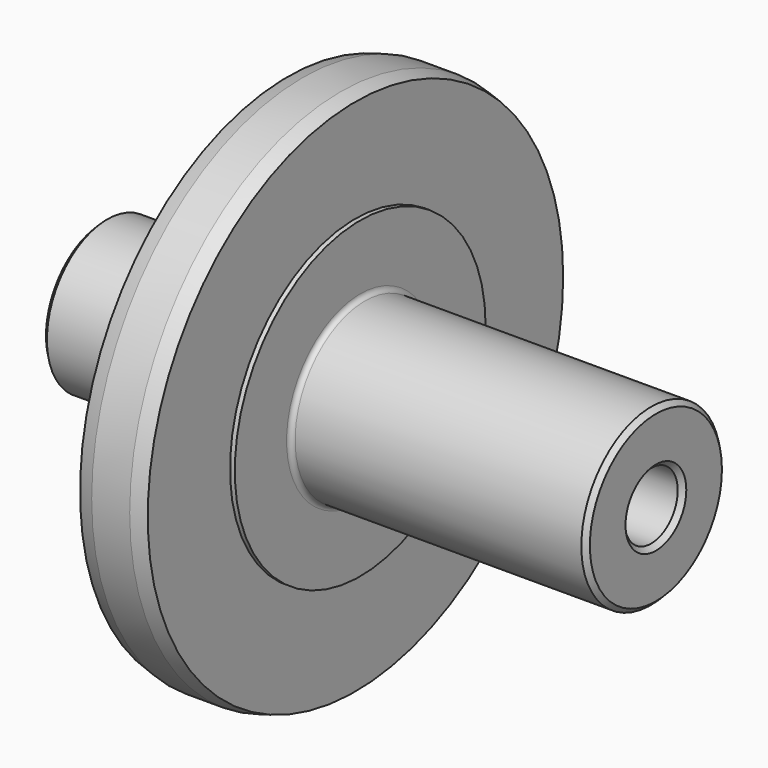
from build123d import *

# Parameters (mm, degrees)
F2_SIZE  = 0.4
F3_R     = 0.4
F4_SIZE2 = 0.3349364905
F4_SIZE  = 1.25


with BuildPart() as f1:
    # F0 (on Top) → F1 (revolve)
    with BuildSketch(Plane.XY):
        Polygon((-22.8699422013, 6.35), (-22.8699422013, 2.8), (23.7300577987, 2.8), (23.7300577987, 7.35), (-1.1699422013, 7.35), (-1.1699422013, 13.2), (-1.5699422013, 13.2), (-1.5699422013, 22.2), (-7.2699422013, 22.2), (-7.2699422013, 9.25), (-7.4699422013, 9.25), (-7.4699422013, 6.35), align=None)
    revolve(axis=Axis((0.339884735, 0, 0), (1, 0, 0)))

    # F2
    f2_edges = [f1.edges().sort_by_distance(p)[0] for p in [
        (23.730058, -7.35, 0),
        (-22.869942, -6.35, 0),
        (-22.869942, -2.8, 0),
        (23.730058, -2.8, 0),
    ]]
    chamfer(f2_edges, length=F2_SIZE)

    # F3
    f3_edges = [f1.edges().sort_by_distance(p)[0] for p in [
        (-7.469942, -6.35, 0),
        (-1.169942, -7.35, 0),
    ]]
    fillet(f3_edges, radius=F3_R)

    # F4
    f4_edges = [f1.edges().sort_by_distance(p)[0] for p in [
        (-1.569942, -22.2, 0),
        (-7.269942, -22.2, 0),
    ]]
    f4_side = f1.faces().sort_by_distance((-4.419942, -22.2, 0))[0]
    chamfer(f4_edges, length=F4_SIZE, length2=F4_SIZE2, reference=f4_side)


solid = f1.part
